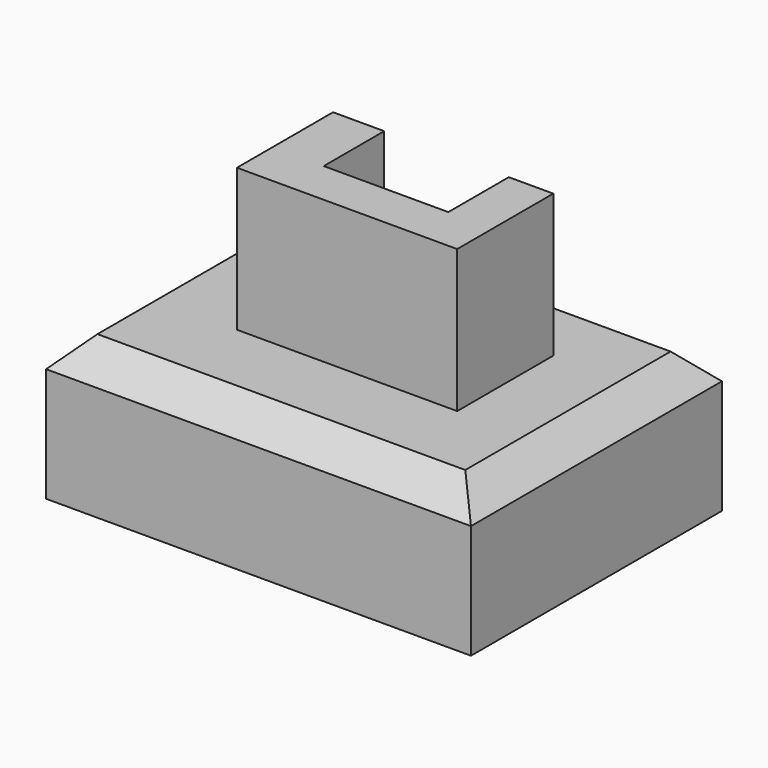
from build123d import *

# Parameters (mm, degrees)
F0_W     = 75.653017
F0_H     = 55.848565
F1_DEPTH = 25.4
F2_SIZE  = 5.08
F4_DEPTH = 25.4


with BuildPart() as f1:
    # F0 (on Top) → F1 (new body)
    with BuildSketch(Plane.XY):
        with Locations((37.826508, 27.924283)):
            Rectangle(F0_W, F0_H)
    extrude(amount=-F1_DEPTH)

    # F2
    f2_edges = [f1.edges().sort_by_distance(p)[0] for p in [
        (0, 27.924282, 0),
        (37.826508, 0, 0),
        (75.653017, 27.924282, 0),
        (37.826508, 55.848565, 0),
    ]]
    chamfer(f2_edges, length=F2_SIZE)

    # F3 (on Top) → F4 (join)
    with BuildSketch(Plane.XY):
        Polygon((58.621187, 18.220101), (58.621187, 39.608911), (50.699413, 39.608911), (50.699413, 26.14188), (28.518412, 26.14188), (28.518412, 39.608911), (19.408364, 39.608911), (19.408364, 18.220101), align=None)
    extrude(amount=F4_DEPTH)


solid = f1.part
